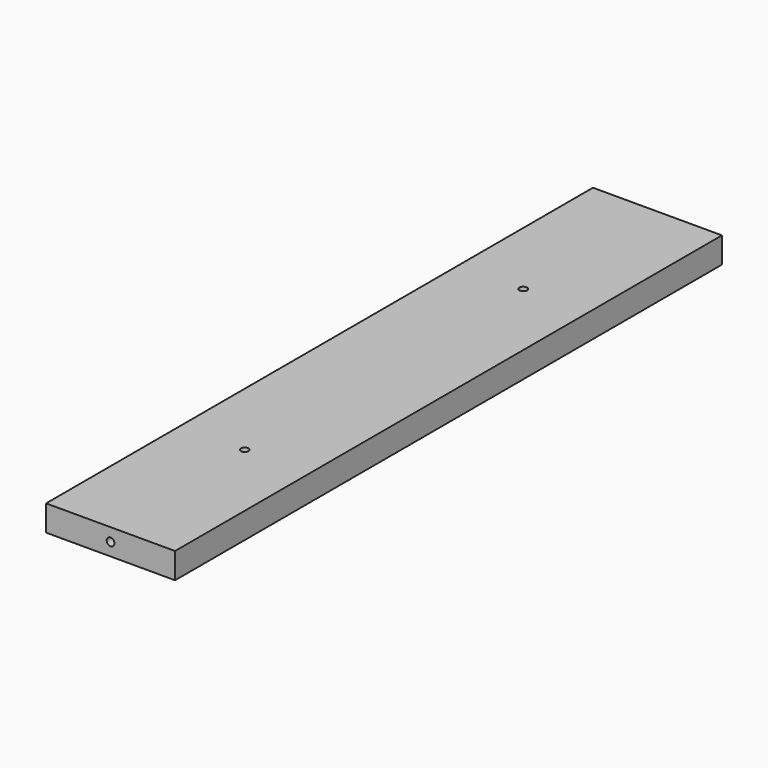
from build123d import *

# Parameters (mm, degrees)
F0_W     = 100
F0_H     = 530
F1_DEPTH = 20
F2_R     = 3
F3_DEPTH = 12
F4_R     = 3
F5_DEPTH = 12
F6_R     = 3
F7_DEPTH = 12
F8_R     = 3
F9_DEPTH = 12


with BuildPart() as f1:
    # F0 (on Top) → F1 (new body)
    with BuildSketch(Plane.XY):
        with Locations((50, 265)):
            Rectangle(F0_W, F0_H)
    extrude(amount=F1_DEPTH)

    # F2 (on face) → F3 (cut)
    with BuildSketch(Plane.XY.offset(20)):
        with Locations((50, 130)):
            Circle(F2_R)
    extrude(amount=-F3_DEPTH, mode=Mode.SUBTRACT)

    # F4 (on face) → F5 (cut)
    with BuildSketch(Plane.XZ):
        with Locations((50, 10)):
            Circle(F4_R)
    extrude(amount=-F5_DEPTH, mode=Mode.SUBTRACT)

    # F6 (on face) → F7 (cut)
    with BuildSketch(Plane(origin=(0, 530, 0), x_dir=(-1, 0, 0), z_dir=(0, 1, 0))):
        with Locations((-50, 10)):
            Circle(F6_R)
    extrude(amount=-F7_DEPTH, mode=Mode.SUBTRACT)

    # F8 (on face) → F9 (cut)
    with BuildSketch(Plane.XY.offset(20)):
        with Locations((50, 400)):
            Circle(F8_R)
    extrude(amount=-F9_DEPTH, mode=Mode.SUBTRACT)


solid = f1.part
